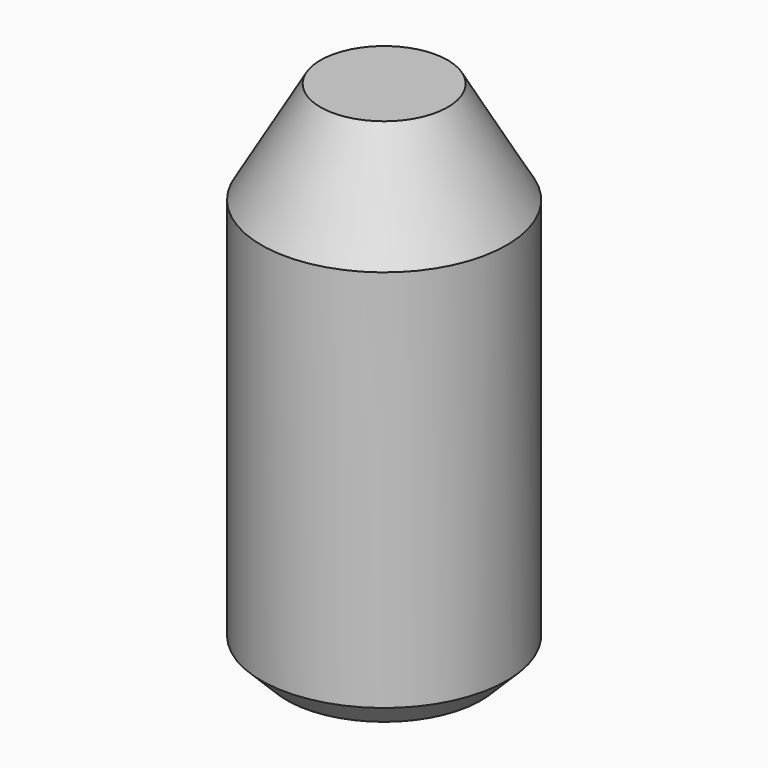
from build123d import *

# Parameters (mm, degrees)
F2_SIZE  = 1
F3_SIZE2 = 2.309401
F3_SIZE  = 4


with BuildPart() as f1:
    # F0 (on Right) → F1 (revolve)
    with BuildSketch(Plane.YZ):
        Polygon((2.5, 17), (2.5, 0), (4.8, 0), (4.8, 20), (0, 20), (0, 17), align=None)
    revolve(axis=Axis((0, 0, 15.318091), (0, 0, -1)))

    # F2
    f2_edges = [f1.edges().sort_by_distance(p)[0] for p in [
        (0, -4.8, 0),
    ]]
    chamfer(f2_edges, length=F2_SIZE)

    # F3
    f3_edges = [f1.edges().sort_by_distance(p)[0] for p in [
        (0, -4.8, 20),
    ]]
    chamfer(f3_edges, length=F3_SIZE, length2=F3_SIZE2)


solid = f1.part
